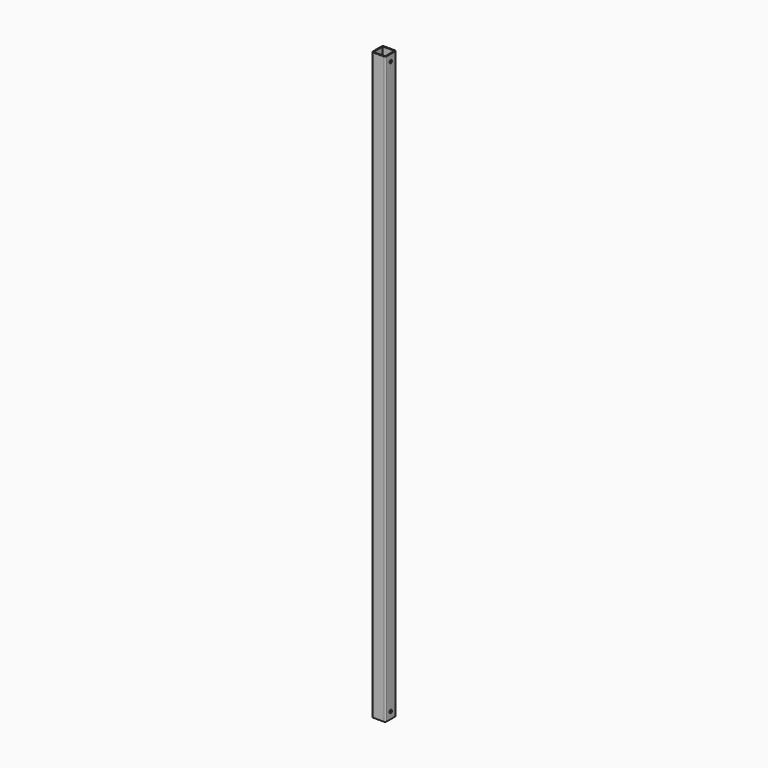
from build123d import *

# Parameters (mm, degrees)
F1_DEPTH = 1720
F2_R     = 4.5
F3_DEPTH = 40.001


with BuildPart() as f1:
    # F0 (on Top) → F1 (new body)
    with BuildSketch(Plane.XY):
        with BuildLine():
            Line((-15.5, -20), (15.5, -20))
            ThreePointArc((15.5, -20), (18.681981, -18.681981), (20, -15.5))
            Line((20, -15.5), (20, 15.5))
            ThreePointArc((20, 15.5), (18.681981, 18.681981), (15.5, 20))
            Line((15.5, 20), (-15.5, 20))
            ThreePointArc((-15.5, 20), (-18.681981, 18.681981), (-20, 15.5))
            Line((-20, 15.5), (-20, -15.5))
            ThreePointArc((-20, -15.5), (-18.681981, -18.681981), (-15.5, -20))
        make_face()
        with BuildLine():
            ThreePointArc((15.5, 17), (16.56066, 16.56066), (17, 15.5))
            Line((17, 15.5), (17, -15.5))
            ThreePointArc((17, -15.5), (16.56066, -16.56066), (15.5, -17))
            Line((15.5, -17), (-15.5, -17))
            ThreePointArc((-15.5, -17), (-16.56066, -16.56066), (-17, -15.5))
            Line((-17, -15.5), (-17, 15.5))
            ThreePointArc((-17, 15.5), (-16.56066, 16.56066), (-15.5, 17))
            Line((-15.5, 17), (15.5, 17))
        make_face(mode=Mode.SUBTRACT)
    extrude(amount=F1_DEPTH)

    # F2 (on face) → F3 (cut, through all)
    with BuildSketch(Plane.YZ.offset(20)):
        with Locations((0, 1700)):
            Circle(F2_R)
        with Locations((0, 20)):
            Circle(F2_R)
    extrude(amount=-F3_DEPTH, mode=Mode.SUBTRACT)


solid = f1.part
